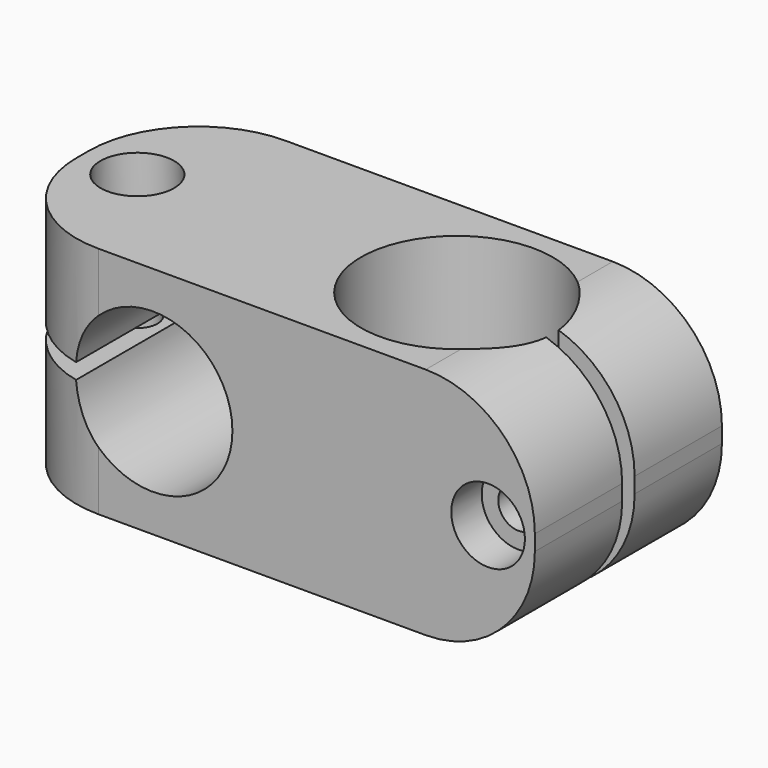
from build123d import *

# Parameters (mm, degrees)
F0_R      = 1.65
F1_DEPTH  = 9.525
F2_R      = 1.65
F3_DEPTH  = 25.4
F4_R      = 3
F4_R_2    = 1.65
F5_DEPTH  = 3.1
F6_R      = 3
F6_R_2    = 1.65
F7_DEPTH  = 3.1
F8_R      = 1.65
F9_DEPTH  = 2.5
F10_R     = 1.65
F11_DEPTH = 2.5
F12_R     = 8.89


with BuildPart() as f1:
    # F0 (on Top) → F1 (new body, symmetric)
    with BuildSketch(Plane.XY):
        with BuildLine():
            Line((22.225, 9.525), (-22.225, 9.525))
            Line((-22.225, 9.525), (-22.225, -9.525))
            Line((-22.225, -9.525), (22.225, -9.525))
            Line((22.225, -9.525), (22.225, -0.635))
            Line((22.225, -0.635), (16.039644, -0.635))
            ThreePointArc((16.039644, -0.635), (0.4445, 0), (16.039644, 0.635))
            Line((16.039644, 0.635), (22.225, 0.635))
            Line((22.225, 0.635), (22.225, 9.525))
        make_face()
        with Locations((-17.78, 0)):
            Circle(F0_R, mode=Mode.SUBTRACT)
    extrude(amount=F1_DEPTH, both=True)

    # F2 (on Front) → F3 (cut, symmetric)
    with BuildSketch(Plane.XZ):
        with BuildLine():
            ThreePointArc((-15.335797, -0.635), (-15.367, 0), (-15.335797, 0.635))
            Line((-15.335797, 0.635), (-22.225, 0.635))
            Line((-22.225, 0.635), (-22.225, -0.635))
            Line((-22.225, -0.635), (-15.335797, -0.635))
        make_face()
        with BuildLine():
            Line((-8.89, 0.635), (-15.335797, 0.635))
            ThreePointArc((-15.335797, 0.635), (-15.367, 0), (-15.335797, -0.635))
            Line((-15.335797, -0.635), (-8.89, -0.635))
            Line((-8.89, -0.635), (-8.89, 0.635))
        make_face()
        with BuildLine():
            ThreePointArc((-15.335797, -0.635), (-8.572117, -6.469195), (-2.413, 0))
            ThreePointArc((-2.413, 0), (-8.572117, 6.469195), (-15.335797, 0.635))
            Line((-15.335797, 0.635), (-8.89, 0.635))
            Line((-8.89, 0.635), (-8.89, -0.635))
            Line((-8.89, -0.635), (-15.335797, -0.635))
        make_face()
        with Locations((18.415, 0)):
            Circle(F2_R)
    extrude(amount=F3_DEPTH, both=True, mode=Mode.SUBTRACT)

    # F4 (on face) → F5 (cut)
    with BuildSketch(Plane.XZ.offset(9.525)):
        with Locations((18.415, 0)):
            Circle(F4_R)
        with Locations((18.415, 0)):
            Circle(F4_R_2, mode=Mode.SUBTRACT)
    extrude(amount=-F5_DEPTH, mode=Mode.SUBTRACT)

    # F6 (on face) → F7 (cut)
    with BuildSketch(Plane.XY.offset(9.525)):
        with Locations((-17.78, 0)):
            Circle(F6_R)
        with Locations((-17.78, 0)):
            Circle(F6_R_2, mode=Mode.SUBTRACT)
    extrude(amount=-F7_DEPTH, mode=Mode.SUBTRACT)

    # F8 (on face) → F9 (cut)
    with BuildSketch(Plane(origin=(0, 9.525, 0), x_dir=(-1, 0, 0), z_dir=(0, 1, 0))):
        Polygon((-16.827287, 2.75), (-20.002713, 2.75), (-21.590426, 0), (-20.002713, -2.75), (-16.827287, -2.75), (-15.239574, 0), align=None)
        with Locations((-18.415, 0)):
            Circle(F8_R, mode=Mode.SUBTRACT)
    extrude(amount=-F9_DEPTH, mode=Mode.SUBTRACT)

    # F10 (on face) → F11 (cut)
    with BuildSketch(Plane(origin=(0, 0, -9.525), x_dir=(1, 0, 0), z_dir=(0, 0, -1))):
        Polygon((-16.192287, 2.75), (-19.367713, 2.75), (-20.955426, 0), (-19.367713, -2.75), (-16.192287, -2.75), (-14.604574, 0), align=None)
        with Locations((-17.78, 0)):
            Circle(F10_R, mode=Mode.SUBTRACT)
    extrude(amount=-F11_DEPTH, mode=Mode.SUBTRACT)

    # F12
    f12_edges = [f1.edges().sort_by_distance(p)[0] for p in [
        (22.225, -5.08, 9.525),
        (22.225, 5.08, 9.525),
        (22.225, -5.08, -9.525),
        (22.225, 5.08, -9.525),
        (-22.225, -9.525, -5.08),
        (-22.225, -9.525, 5.08),
        (-22.225, 9.525, -5.08),
        (-22.225, 9.525, 5.08),
    ]]
    fillet(f12_edges, radius=F12_R)


solid = f1.part
